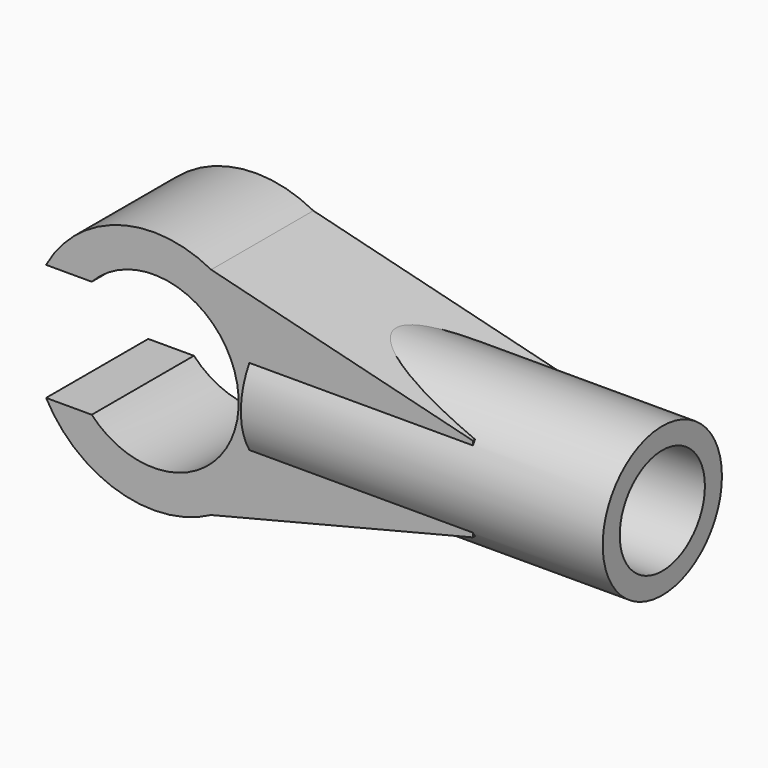
from build123d import *

# Parameters (mm, degrees)
F0_R      = 5.75
F0_R_2    = 4
F1_DEPTH  = 3
F3_R      = 3.5
F4_DEPTH  = 17
F5_W      = 20
F5_H      = 5.5
F6_DEPTH  = 25
F12_DEPTH = 6
F10_R     = 2.5
F13_DEPTH = 25


with BuildPart() as f1:
    # F0 (on Front) → F1 (new body, symmetric)
    with BuildSketch(Plane.XZ):
        Circle(F0_R)
        Circle(F0_R_2, mode=Mode.SUBTRACT)
    extrude(amount=F1_DEPTH, both=True)

    # F3 (on offset) → F4 (join)
    with BuildSketch(Plane.YZ.offset(4.5)):
        Circle(F3_R)
    extrude(amount=F4_DEPTH)

    # F5 (on face) → F6 (cut)
    with BuildSketch(Plane.XZ.offset(3)):
        with Locations((-10, 0)):
            Rectangle(F5_W, F5_H)
    extrude(amount=-F6_DEPTH, mode=Mode.SUBTRACT)

    # F11 (on face) → F12 (join)
    with BuildSketch(Plane.XZ.offset(3)):
        Polygon((15, 2), (0, 5.75), (4.887585, 1.127019), (4.887585, -0.959626), (0, -5.75), (15, -2), align=None)
    extrude(amount=-F12_DEPTH)

    # F10 (on face) → F13 (cut)
    with BuildSketch(Plane.YZ.offset(21.5)):
        Circle(F10_R)
    extrude(amount=-F13_DEPTH, mode=Mode.SUBTRACT)


solid = f1.part
